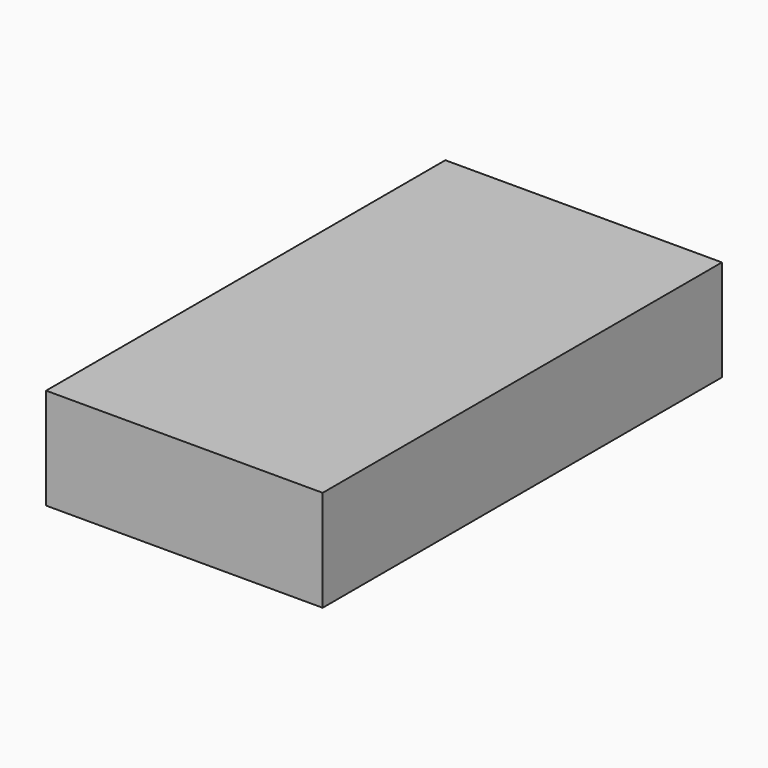
from build123d import *

# Parameters (mm, degrees)
F1_W     = 27.32588
F1_H     = 49.303636
F2_DEPTH = 10


with BuildPart() as f2:
    # F1 (on face) → F2 (new body)
    with BuildSketch(Plane.XY):
        with Locations((13.66294, -24.651818)):
            Rectangle(F1_W, F1_H)
    extrude(amount=F2_DEPTH)


solid = f2.part
